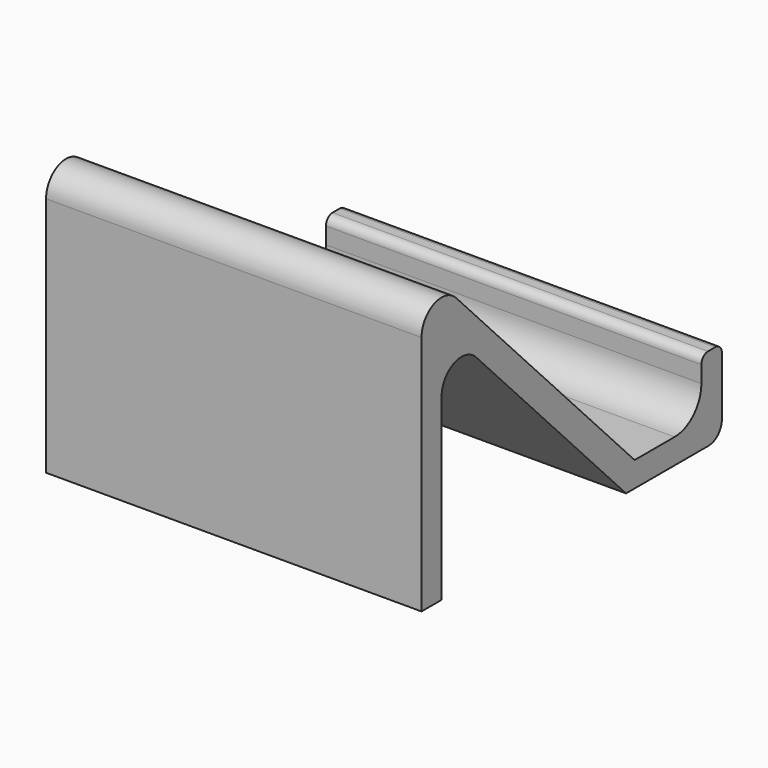
from build123d import *

# Parameters (mm, degrees)
F1_DEPTH = 45
F2_R     = 8.270702783
F2_R_2   = 7.5699344576
F2_R_3   = 0.4069488222
F3_DEPTH = 1.5


with BuildPart() as f1:
    # F0 (on Right) → F1 (new body)
    with BuildSketch(Plane.YZ):
        with BuildLine():
            Line((-22.4725382223, 23.5068366048), (0, 0))
            Line((0, 0), (12.3609593138, 0))
            ThreePointArc((12.3609593138, 0), (13.7751728762, 0.5857864376), (14.3609593138, 2))
            Line((14.3609593138, 2), (14.3609593138, 7))
            Line((14.3609593138, 7), (14.3609593138, 9))
            ThreePointArc((14.3609593138, 9), (14.068066095, 9.7071067812), (13.3609593138, 10))
            Line((13.3609593138, 10), (12.2823521785, 10))
            ThreePointArc((12.2823521785, 10), (11.5752453973, 9.7071067812), (11.2823521785, 9))
            Line((11.2823521785, 9), (11.2823521785, 7))
            ThreePointArc((11.2823521785, 7), (10.1107793032, 4.1715728753), (7.2823521785, 3))
            Line((7.2823521785, 3), (1.2823521785, 3))
            Line((1.2823521785, 3), (-25.4725382223, 30.9862840062))
            ThreePointArc((-25.4725382223, 30.9862840062), (-28.7578385809, 31.6975803479), (-30.6410287362, 28.913206851))
            Line((-30.6410287362, 28.913206851), (-30.6410287362, 0))
            Line((-30.6410287362, 0), (-27.6410287362, 0))
            Line((-27.6410287362, 0), (-27.6410287362, 21.4337594496))
            ThreePointArc((-27.6410287362, 21.4337594496), (-25.7578385809, 24.2181329465), (-22.4725382223, 23.5068366048))
        make_face()
    extrude(amount=F1_DEPTH)

    # F2 (on face) → F3 (cut)
    with BuildSketch(Plane(origin=(0, 2.1684905138, 2.0730771552), x_dir=(-1, 0, 0), z_dir=(0, 0.7228301713, 0.6910257184))):
        with Locations((-22.5, 20.6411760892)):
            Circle(F2_R)
        with Locations((-22.5, 20.6411760892)):
            Circle(F2_R_2, mode=Mode.SUBTRACT)
        with BuildLine():
            Line((-26.7460289363, 19.2989930163), (-26.7460289363, 21.0181410771))
            ThreePointArc((-26.7460289363, 21.0181410771), (-27.1604015057, 23.0993524994), (-27.5180879991, 21.0076531943))
            Line((-27.5180879991, 21.0076531943), (-27.5180879991, 19.1088523712))
            Line((-27.5180879991, 19.1088523712), (-27.3791737854, 18.8299436122))
            Line((-27.3791737854, 18.8299436122), (-27.1837860346, 18.5172446072))
            Line((-27.1837860346, 18.5172446072), (-26.9623473287, 18.2827226818))
            Line((-26.9623473287, 18.2827226818), (-26.68880485, 18.0481951684))
            Line((-26.68880485, 18.0481951684), (-26.3631585985, 17.8918484598))
            Line((-26.3631585985, 17.8918484598), (-25.9333048016, 17.7876148373))
            Line((-25.9333048016, 17.7876148373), (-18.7821220607, 17.7876148373))
            Line((-18.7821220607, 17.7876148373), (-18.5476560146, 17.8918484598))
            Line((-18.5476560146, 17.8918484598), (-18.3392427862, 18.0481951684))
            Line((-18.3392427862, 18.0481951684), (-18.0917512625, 18.2827226818))
            Line((-18.0917512625, 18.2827226818), (-17.9093908519, 18.5172446072))
            Line((-17.9093908519, 18.5172446072), (-17.7009776235, 18.8299436122))
            Line((-17.7009776235, 18.8299436122), (-17.5967700779, 19.1088523712))
            Line((-17.5967700779, 19.1088523712), (-17.5967700779, 21.0005989226))
            ThreePointArc((-17.5967700779, 21.0005989226), (-17.9118361845, 23.10197132), (-18.3392427862, 21.0205400333))
            Line((-18.3392427862, 21.0205400333), (-18.3392427862, 19.4162540138))
            Line((-18.3392427862, 19.4162540138), (-18.4043720365, 19.2468762398))
            Line((-18.4043720365, 19.2468762398), (-18.5606833547, 19.0123524517))
            Line((-18.5606833547, 19.0123524517), (-18.6909399927, 18.8429746777))
            Line((-18.6909399927, 18.8429746777), (-18.8602767885, 18.6866223812))
            Line((-18.8602767885, 18.6866223812), (-19.1989485174, 18.5302719474))
            Line((-19.1989485174, 18.5302719474), (-20.7229703665, 18.5302719474))
            Line((-20.7229703665, 18.5302719474), (-20.6578411162, 18.6735969037))
            Line((-20.6578411162, 18.6735969037), (-20.5836875976, 18.8169161692))
            Line((-20.5836875976, 18.8169161692), (-20.5836875976, 21.0127137605))
            ThreePointArc((-20.5836875976, 21.0127137605), (-21.0493362808, 23.0811417849), (-21.3742628694, 20.9859936039))
            Line((-21.3742628694, 20.9859936039), (-21.3742628694, 18.8429746777))
            Line((-21.3742628694, 18.8429746777), (-21.4133411646, 18.6866223812))
            Line((-21.4133411646, 18.6866223812), (-21.4784704149, 18.6084471643))
            Line((-21.4784704149, 18.6084471643), (-21.647805348, 18.5302719474))
            Line((-21.647805348, 18.5302719474), (-23.3281385154, 18.5302719474))
            Line((-23.3281385154, 18.5302719474), (-23.4714224935, 18.5693614185))
            Line((-23.4714224935, 18.5693614185), (-23.6147064716, 18.6735969037))
            Line((-23.6147064716, 18.6735969037), (-23.7134122117, 18.8038833277))
            Line((-23.7134122117, 18.8038833277), (-23.7134122117, 20.990443881))
            ThreePointArc((-23.7134122117, 20.990443881), (-24.0851049871, 23.0782021511), (-24.5004631579, 20.9986907413))
            Line((-24.5004631579, 20.9986907413), (-24.5004631579, 18.8038833439))
            Line((-24.5004631579, 18.8038833439), (-24.4874376804, 18.647538498))
            Line((-24.4874376804, 18.647538498), (-24.3441537023, 18.5172446072))
            Line((-24.3441537023, 18.5172446072), (-25.7248915732, 18.5172446072))
            Line((-25.7248915732, 18.5172446072), (-25.9463302791, 18.556330353))
            Line((-25.9463302791, 18.556330353), (-26.2198727578, 18.6996497214))
            Line((-26.2198727578, 18.6996497214), (-26.4282878488, 18.8560020179))
            Line((-26.4282878488, 18.8560020179), (-26.597622782, 19.0514381975))
            Line((-26.597622782, 19.0514381975), (-26.7460289363, 19.2989930163))
        make_face()
        with Locations((-27.1457448778, 22.0204138214)):
            Circle(F2_R_3, mode=Mode.SUBTRACT)
        with Locations((-24.0964107215, 21.9992231578)):
            Circle(F2_R_3, mode=Mode.SUBTRACT)
        with Locations((-21.0128873587, 22.0027193427)):
            Circle(F2_R_3, mode=Mode.SUBTRACT)
        with Locations((-17.9408062249, 22.0233220607)):
            Circle(F2_R_3, mode=Mode.SUBTRACT)
    extrude(amount=-F3_DEPTH, mode=Mode.SUBTRACT)


solid = f1.part
